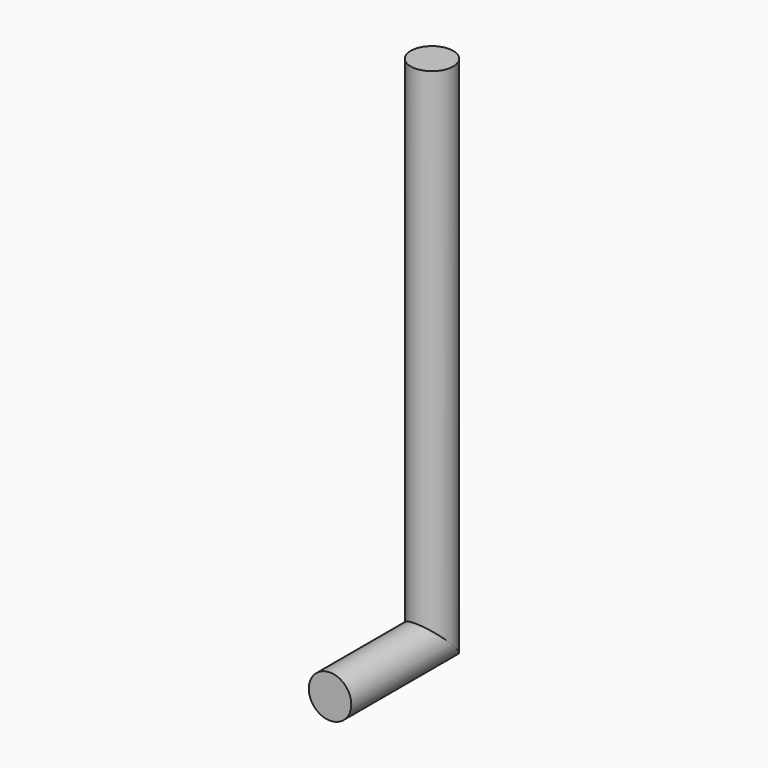
from build123d import *

# Parameters (mm, degrees)
F1_R = 5


with BuildPart() as f2:
    # F2: sweep along a path in F0
    with BuildLine(Plane.YZ) as f2_path:
        Line((0, 0), (30, 0))
        Line((30, 0), (30, 120))
    # F1 (on Front) → F2 (sweep)
    with BuildSketch(Plane.XZ):
        Circle(F1_R)
    sweep(path=f2_path.line, transition=Transition.RIGHT)


solid = f2.part
